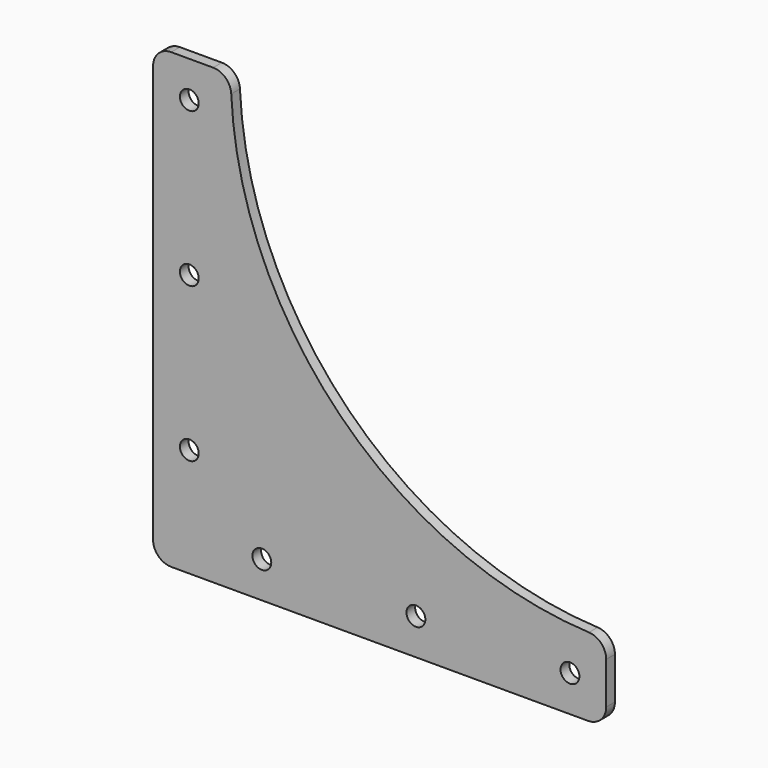
from build123d import *

# Parameters (mm, degrees)
F0_R     = 2.6
F1_DEPTH = 3


with BuildPart() as f1:
    # F0 (on Front) → F1 (new body)
    with BuildSketch(Plane.XZ):
        with BuildLine():
            Line((-57.5, -62.5), (57.5, -62.5))
            ThreePointArc((57.5, -62.5), (61.035534, -61.035534), (62.5, -57.5))
            Line((62.5, -57.5), (62.5, -45.930671))
            ThreePointArc((62.5, -45.930671), (61.116047, -42.477526), (57.730317, -40.935978))
            ThreePointArc((57.730317, -40.935978), (-10.718001, -10.718001), (-40.935978, 57.730317))
            ThreePointArc((-40.935978, 57.730317), (-42.477526, 61.116047), (-45.930671, 62.5))
            Line((-45.930671, 62.5), (-57.5, 62.5))
            ThreePointArc((-57.5, 62.5), (-61.035534, 61.035534), (-62.5, 57.5))
            Line((-62.5, 57.5), (-62.5, -57.5))
            ThreePointArc((-62.5, -57.5), (-61.035534, -61.035534), (-57.5, -62.5))
        make_face()
        with Locations((-32.5, -52.5)):
            Circle(F0_R, mode=Mode.SUBTRACT)
        with Locations((-52.5, -32.5)):
            Circle(F0_R, mode=Mode.SUBTRACT)
        with Locations((10, -52.5)):
            Circle(F0_R, mode=Mode.SUBTRACT)
        with Locations((52.5, -52.5)):
            Circle(F0_R, mode=Mode.SUBTRACT)
        with Locations((-52.5, 10)):
            Circle(F0_R, mode=Mode.SUBTRACT)
        with Locations((-52.5, 52.5)):
            Circle(F0_R, mode=Mode.SUBTRACT)
    extrude(amount=F1_DEPTH)


solid = f1.part
